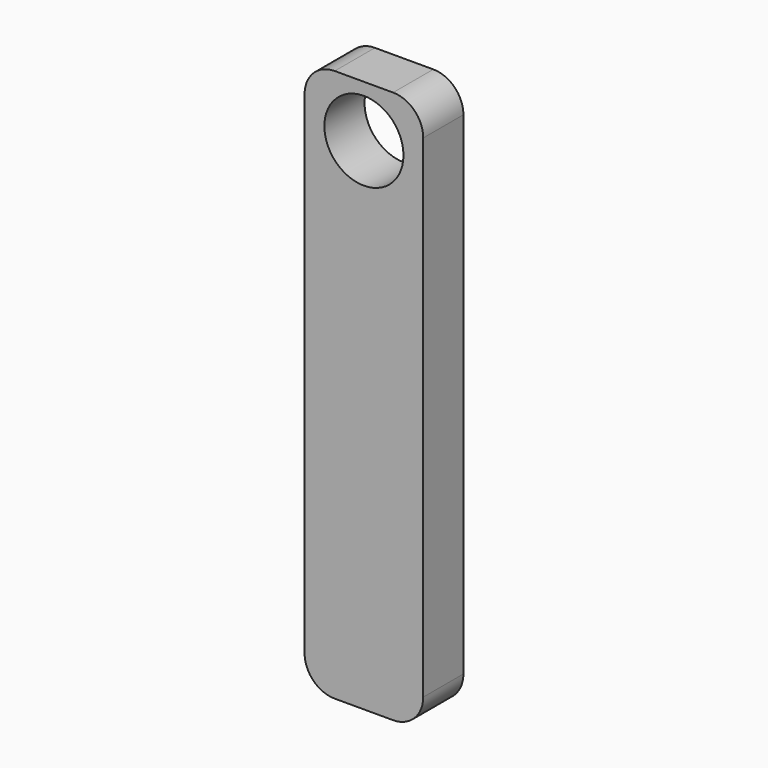
from build123d import *

# Parameters (mm, degrees)
F0_R     = 5
F1_DEPTH = 6.35


with BuildPart() as f1:
    # F0 (on Front) → F1 (new body)
    with BuildSketch(Plane.XZ):
        with BuildLine():
            Line((3.69, 34.925), (-3.69, 34.925))
            ThreePointArc((-3.69, 34.925), (-6.384077, 33.809077), (-7.5, 31.115))
            Line((-7.5, 31.115), (-7.5, -31.115))
            ThreePointArc((-7.5, -31.115), (-6.384077, -33.809077), (-3.69, -34.925))
            Line((-3.69, -34.925), (3.69, -34.925))
            ThreePointArc((3.69, -34.925), (6.384077, -33.809077), (7.5, -31.115))
            Line((7.5, -31.115), (7.5, 31.115))
            ThreePointArc((7.5, 31.115), (6.384077, 33.809077), (3.69, 34.925))
        make_face()
        with Locations((0, 28.362114)):
            Circle(F0_R, mode=Mode.SUBTRACT)
    extrude(amount=F1_DEPTH)


solid = f1.part
